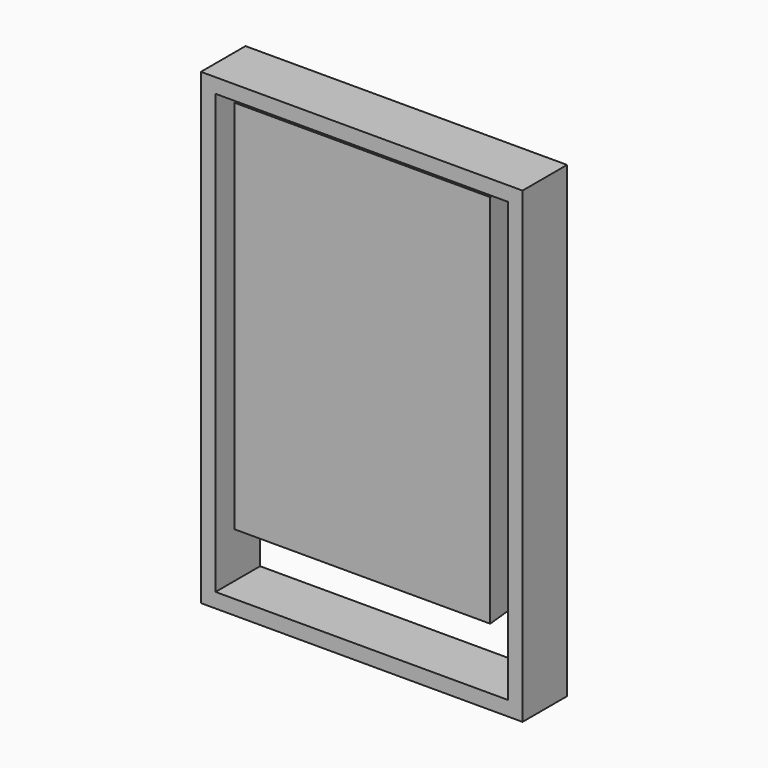
from build123d import *

# Parameters (mm, degrees)
F0_W     = 440
F0_H     = 640
F0_W_2   = 400
F0_H_2   = 600
F1_DEPTH = 76.2
F2_W     = 344
F2_H     = 508
F3_DEPTH = 55
F3_TAPER = -3


with BuildPart() as f1:
    # F0 (on Front) → F1 (new body)
    with BuildSketch(Plane.XZ):
        Rectangle(F0_W, F0_H)
        Rectangle(F0_W_2, F0_H_2, mode=Mode.SUBTRACT)
    extrude(amount=F1_DEPTH)


with BuildPart() as f3:
    # F2 (on Front) → F3 (new body)
    with BuildSketch(Plane.XZ):
        Rectangle(F2_W, F2_H)
    extrude(amount=F3_DEPTH, taper=F3_TAPER)


with BuildPart() as f3_1:
    # F4: moved
    add(f3.part.moved(Location((0, -20, 40))))


solid = Compound([f1.part, f3_1.part])
